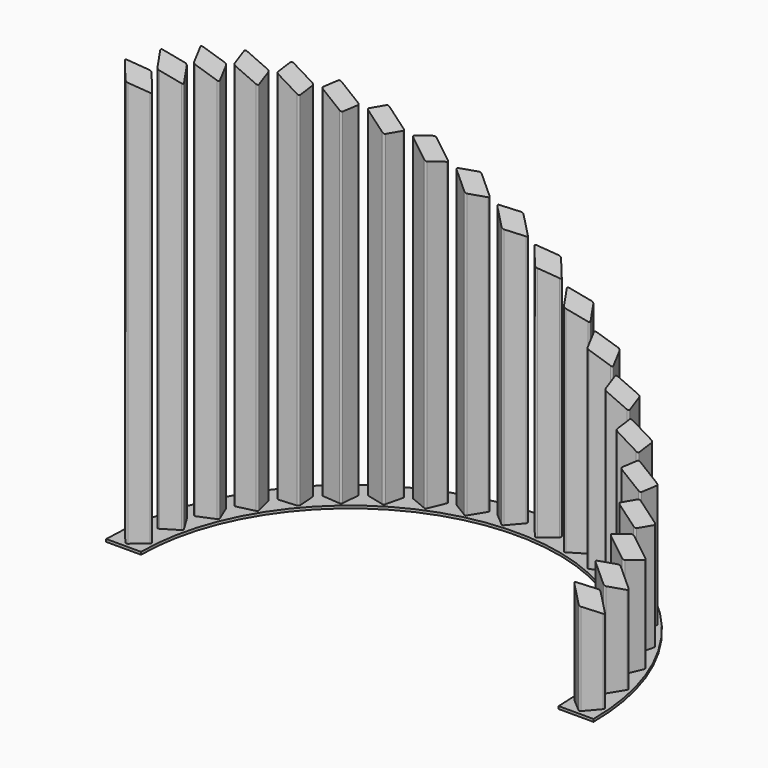
from build123d import *

# Parameters (mm, degrees)
F1_DEPTH = 9.525
F3_DEPTH = 1524
F5_DEPTH = 889.001


with BuildPart() as f1:
    # F0 (on Top) → F1 (new body)
    with BuildSketch(Plane.XY):
        with BuildLine():
            Line((762, 0), (889, 0))
            ThreePointArc((889, 0), (0, 889), (-889, 0))
            Line((-889, 0), (-762, 0))
            ThreePointArc((-762, 0), (0, 762), (762, 0))
        make_face()
    extrude(amount=F1_DEPTH)

    # F2 (on face) → F3 (join)
    with BuildSketch(Plane.XY.offset(9.525)):
        with BuildLine():
            Line((-823.5563402303, 114.3594263472), (-871.8421190459, 73.1194752782))
            ThreePointArc((-871.8421190459, 73.1194752782), (-874.0485490082, 68.7891126545), (-872.5467018205, 64.1669022898))
            Line((-872.5467018205, 64.1669022898), (-831.3067507516, 15.8811234742))
            ThreePointArc((-831.3067507516, 15.8811234742), (-826.9763881279, 13.6746935118), (-822.3541777631, 15.1765406995))
            Line((-822.3541777631, 15.1765406995), (-774.0683989475, 56.4164917685))
            ThreePointArc((-774.0683989475, 56.4164917685), (-771.8619689852, 60.7468543921), (-773.3638161729, 65.3690647569))
            Line((-773.3638161729, 65.3690647569), (-814.6037672418, 113.6548435725))
            ThreePointArc((-814.6037672418, 113.6548435725), (-818.9341298655, 115.8612735348), (-823.5563402303, 114.3594263472))
        make_face()
        with BuildLine():
            Line((831.3067507516, 15.8811234742), (872.5467018205, 64.1669022898))
            ThreePointArc((872.5467018205, 64.1669022898), (874.0485490082, 68.7891126545), (871.8421190459, 73.1194752782))
            Line((871.8421190459, 73.1194752782), (823.5563402303, 114.3594263472))
            ThreePointArc((823.5563402303, 114.3594263472), (818.9341298655, 115.8612735348), (814.6037672418, 113.6548435725))
            Line((814.6037672418, 113.6548435725), (773.3638161729, 65.3690647569))
            ThreePointArc((773.3638161729, 65.3690647569), (771.8619689852, 60.7468543921), (774.0683989475, 56.4164917685))
            Line((774.0683989475, 56.4164917685), (822.3541777631, 15.1765406995))
            ThreePointArc((822.3541777631, 15.1765406995), (826.9763881279, 13.6746935118), (831.3067507516, 15.8811234742))
        make_face()
        with BuildLine():
            Line((818.5876301204, 145.7306273291), (851.7662889799, 199.8732777656))
            ThreePointArc((851.7662889799, 199.8732777656), (852.5265729308, 204.673521712), (849.6698898222, 208.6054086952))
            Line((849.6698898222, 208.6054086952), (795.5272393857, 241.7840675547))
            ThreePointArc((795.5272393857, 241.7840675547), (790.7269954393, 242.5443515055), (786.7951084561, 239.687668397))
            Line((786.7951084561, 239.687668397), (753.6164495967, 185.5450179605))
            ThreePointArc((753.6164495967, 185.5450179605), (752.8561656458, 180.7447740141), (755.7128487544, 176.8128870309))
            Line((755.7128487544, 176.8128870309), (809.8554991908, 143.6342281714))
            ThreePointArc((809.8554991908, 143.6342281714), (814.6557431373, 142.8739442206), (818.5876301204, 145.7306273291))
        make_face()
        with BuildLine():
            Line((785.7121652992, 271.991759487), (810.0125632543, 330.6581098015))
            ThreePointArc((810.0125632543, 330.6581098015), (810.0125632543, 335.5181893925), (806.5759680184, 338.9547846285))
            Line((806.5759680184, 338.9547846285), (747.9096177039, 363.2551825837))
            ThreePointArc((747.9096177039, 363.2551825837), (743.0495381129, 363.2551825837), (739.612942877, 359.8185873477))
            Line((739.612942877, 359.8185873477), (715.3125449218, 301.1522370333))
            ThreePointArc((715.3125449218, 301.1522370333), (715.3125449218, 296.2921574422), (718.7491401577, 292.8555622063))
            Line((718.7491401577, 292.8555622063), (777.4154904722, 268.5551642511))
            ThreePointArc((777.4154904722, 268.5551642511), (782.2755700632, 268.5551642511), (785.7121652992, 271.991759487))
        make_face()
        with BuildLine():
            Line((733.489859339, 391.5555518375), (748.3136399439, 453.3010417827))
            ThreePointArc((748.3136399439, 453.3010417827), (747.553355993, 458.1012857292), (743.6214690098, 460.9579688377))
            Line((743.6214690098, 460.9579688377), (681.8759790646, 475.7817494426))
            ThreePointArc((681.8759790646, 475.7817494426), (677.0757351182, 475.0214654917), (674.2190520096, 471.0895785086))
            Line((674.2190520096, 471.0895785086), (659.3952714047, 409.3440885633))
            ThreePointArc((659.3952714047, 409.3440885633), (660.1555553556, 404.5438446169), (664.0874423388, 401.6871615083))
            Line((664.0874423388, 401.6871615083), (725.832932284, 386.8633809034))
            ThreePointArc((725.832932284, 386.8633809034), (730.6331762305, 387.6236648543), (733.489859339, 391.5555518375))
        make_face()
        with BuildLine():
            Line((663.2065987287, 501.4779470033), (668.1887513074, 564.7821976954))
            ThreePointArc((668.1887513074, 564.7821976954), (666.6869041198, 569.4044080601), (662.3565414961, 571.6108380224))
            Line((662.3565414961, 571.6108380224), (599.052290804, 576.5929906012))
            ThreePointArc((599.052290804, 576.5929906012), (594.4300804393, 575.0911434135), (592.223650477, 570.7607807898))
            Line((592.223650477, 570.7607807898), (587.2414978982, 507.4565300978))
            ThreePointArc((587.2414978982, 507.4565300978), (588.7433450859, 502.834319733), (593.0737077096, 500.6278897707))
            Line((593.0737077096, 500.6278897707), (656.3779584016, 495.645737192))
            ThreePointArc((656.3779584016, 495.645737192), (661.0001687664, 497.1475843796), (663.2065987287, 501.4779470033))
        make_face()
        with BuildLine():
            Line((576.5929906012, 599.052290804), (571.6108380224, 662.3565414961))
            ThreePointArc((571.6108380224, 662.3565414961), (569.4044080601, 666.6869041198), (564.7821976954, 668.1887513074))
            Line((564.7821976954, 668.1887513074), (501.4779470033, 663.2065987287))
            ThreePointArc((501.4779470033, 663.2065987287), (497.1475843796, 661.0001687664), (495.645737192, 656.3779584016))
            Line((495.645737192, 656.3779584016), (500.6278897707, 593.0737077096))
            ThreePointArc((500.6278897707, 593.0737077096), (502.834319733, 588.7433450859), (507.4565300978, 587.2414978982))
            Line((507.4565300978, 587.2414978982), (570.7607807898, 592.223650477))
            ThreePointArc((570.7607807898, 592.223650477), (575.0911434135, 594.4300804393), (576.5929906012, 599.052290804))
        make_face()
        with BuildLine():
            Line((475.7817494426, 681.8759790646), (460.9579688377, 743.6214690098))
            ThreePointArc((460.9579688377, 743.6214690098), (458.1012857292, 747.553355993), (453.3010417827, 748.3136399439))
            Line((453.3010417827, 748.3136399439), (391.5555518375, 733.489859339))
            ThreePointArc((391.5555518375, 733.489859339), (387.6236648543, 730.6331762305), (386.8633809034, 725.832932284))
            Line((386.8633809034, 725.832932284), (401.6871615083, 664.0874423388))
            ThreePointArc((401.6871615083, 664.0874423388), (404.5438446169, 660.1555553556), (409.3440885633, 659.3952714047))
            Line((409.3440885633, 659.3952714047), (471.0895785086, 674.2190520096))
            ThreePointArc((471.0895785086, 674.2190520096), (475.0214654917, 677.0757351182), (475.7817494426, 681.8759790646))
        make_face()
        with BuildLine():
            Line((363.2551825837, 747.9096177039), (338.9547846285, 806.5759680184))
            ThreePointArc((338.9547846285, 806.5759680184), (335.5181893925, 810.0125632543), (330.6581098015, 810.0125632543))
            Line((330.6581098015, 810.0125632543), (271.991759487, 785.7121652992))
            ThreePointArc((271.991759487, 785.7121652992), (268.5551642511, 782.2755700632), (268.5551642511, 777.4154904722))
            Line((268.5551642511, 777.4154904722), (292.8555622063, 718.7491401577))
            ThreePointArc((292.8555622063, 718.7491401577), (296.2921574422, 715.3125449218), (301.1522370333, 715.3125449218))
            Line((301.1522370333, 715.3125449218), (359.8185873477, 739.612942877))
            ThreePointArc((359.8185873477, 739.612942877), (363.2551825837, 743.0495381129), (363.2551825837, 747.9096177039))
        make_face()
        with BuildLine():
            Line((241.7840675547, 795.5272393857), (208.6054086952, 849.6698898222))
            ThreePointArc((208.6054086952, 849.6698898222), (204.673521712, 852.5265729308), (199.8732777656, 851.7662889799))
            Line((199.8732777656, 851.7662889799), (145.7306273291, 818.5876301204))
            ThreePointArc((145.7306273291, 818.5876301204), (142.8739442206, 814.6557431373), (143.6342281714, 809.8554991908))
            Line((143.6342281714, 809.8554991908), (176.8128870309, 755.7128487544))
            ThreePointArc((176.8128870309, 755.7128487544), (180.7447740141, 752.8561656458), (185.5450179605, 753.6164495967))
            Line((185.5450179605, 753.6164495967), (239.687668397, 786.7951084561))
            ThreePointArc((239.687668397, 786.7951084561), (242.5443515055, 790.7269954393), (241.7840675547, 795.5272393857))
        make_face()
        with BuildLine():
            Line((114.3594263472, 823.5563402303), (73.1194752782, 871.8421190459))
            ThreePointArc((73.1194752782, 871.8421190459), (68.7891126545, 874.0485490082), (64.1669022898, 872.5467018205))
            Line((64.1669022898, 872.5467018205), (15.8811234742, 831.3067507516))
            ThreePointArc((15.8811234742, 831.3067507516), (13.6746935118, 826.9763881279), (15.1765406995, 822.3541777631))
            Line((15.1765406995, 822.3541777631), (56.4164917685, 774.0683989475))
            ThreePointArc((56.4164917685, 774.0683989475), (60.7468543921, 771.8619689852), (65.3690647569, 773.3638161729))
            Line((65.3690647569, 773.3638161729), (113.6548435725, 814.6037672418))
            ThreePointArc((113.6548435725, 814.6037672418), (115.8612735348, 818.9341298655), (114.3594263472, 823.5563402303))
        make_face()
        with BuildLine():
            Line((-15.8811234742, 831.3067507516), (-64.1669022898, 872.5467018205))
            ThreePointArc((-64.1669022898, 872.5467018205), (-68.7891126545, 874.0485490082), (-73.1194752782, 871.8421190459))
            Line((-73.1194752782, 871.8421190459), (-114.3594263472, 823.5563402303))
            ThreePointArc((-114.3594263472, 823.5563402303), (-115.8612735348, 818.9341298655), (-113.6548435725, 814.6037672418))
            Line((-113.6548435725, 814.6037672418), (-65.3690647569, 773.3638161729))
            ThreePointArc((-65.3690647569, 773.3638161729), (-60.7468543921, 771.8619689852), (-56.4164917685, 774.0683989475))
            Line((-56.4164917685, 774.0683989475), (-15.1765406995, 822.3541777631))
            ThreePointArc((-15.1765406995, 822.3541777631), (-13.6746935118, 826.9763881279), (-15.8811234742, 831.3067507516))
        make_face()
        with BuildLine():
            Line((-145.7306273291, 818.5876301204), (-199.8732777656, 851.7662889799))
            ThreePointArc((-199.8732777656, 851.7662889799), (-204.673521712, 852.5265729308), (-208.6054086952, 849.6698898222))
            Line((-208.6054086952, 849.6698898222), (-241.7840675547, 795.5272393857))
            ThreePointArc((-241.7840675547, 795.5272393857), (-242.5443515055, 790.7269954393), (-239.687668397, 786.7951084561))
            Line((-239.687668397, 786.7951084561), (-185.5450179605, 753.6164495967))
            ThreePointArc((-185.5450179605, 753.6164495967), (-180.7447740141, 752.8561656458), (-176.8128870309, 755.7128487544))
            Line((-176.8128870309, 755.7128487544), (-143.6342281714, 809.8554991908))
            ThreePointArc((-143.6342281714, 809.8554991908), (-142.8739442206, 814.6557431373), (-145.7306273291, 818.5876301204))
        make_face()
        with BuildLine():
            Line((-271.991759487, 785.7121652992), (-330.6581098015, 810.0125632543))
            ThreePointArc((-330.6581098015, 810.0125632543), (-335.5181893925, 810.0125632543), (-338.9547846285, 806.5759680184))
            Line((-338.9547846285, 806.5759680184), (-363.2551825837, 747.9096177039))
            ThreePointArc((-363.2551825837, 747.9096177039), (-363.2551825837, 743.0495381129), (-359.8185873477, 739.612942877))
            Line((-359.8185873477, 739.612942877), (-301.1522370333, 715.3125449218))
            ThreePointArc((-301.1522370333, 715.3125449218), (-296.2921574422, 715.3125449218), (-292.8555622063, 718.7491401577))
            Line((-292.8555622063, 718.7491401577), (-268.5551642511, 777.4154904722))
            ThreePointArc((-268.5551642511, 777.4154904722), (-268.5551642511, 782.2755700632), (-271.991759487, 785.7121652992))
        make_face()
        with BuildLine():
            Line((-391.5555518375, 733.489859339), (-453.3010417827, 748.3136399439))
            ThreePointArc((-453.3010417827, 748.3136399439), (-458.1012857292, 747.553355993), (-460.9579688377, 743.6214690098))
            Line((-460.9579688377, 743.6214690098), (-475.7817494426, 681.8759790646))
            ThreePointArc((-475.7817494426, 681.8759790646), (-475.0214654917, 677.0757351182), (-471.0895785086, 674.2190520096))
            Line((-471.0895785086, 674.2190520096), (-409.3440885633, 659.3952714047))
            ThreePointArc((-409.3440885633, 659.3952714047), (-404.5438446169, 660.1555553556), (-401.6871615083, 664.0874423388))
            Line((-401.6871615083, 664.0874423388), (-386.8633809034, 725.832932284))
            ThreePointArc((-386.8633809034, 725.832932284), (-387.6236648543, 730.6331762305), (-391.5555518375, 733.489859339))
        make_face()
        with BuildLine():
            Line((-501.4779470033, 663.2065987287), (-564.7821976954, 668.1887513074))
            ThreePointArc((-564.7821976954, 668.1887513074), (-569.4044080601, 666.6869041198), (-571.6108380224, 662.3565414961))
            Line((-571.6108380224, 662.3565414961), (-576.5929906012, 599.052290804))
            ThreePointArc((-576.5929906012, 599.052290804), (-575.0911434135, 594.4300804393), (-570.7607807898, 592.223650477))
            Line((-570.7607807898, 592.223650477), (-507.4565300978, 587.2414978982))
            ThreePointArc((-507.4565300978, 587.2414978982), (-502.834319733, 588.7433450859), (-500.6278897707, 593.0737077096))
            Line((-500.6278897707, 593.0737077096), (-495.645737192, 656.3779584016))
            ThreePointArc((-495.645737192, 656.3779584016), (-497.1475843796, 661.0001687664), (-501.4779470033, 663.2065987287))
        make_face()
        with BuildLine():
            Line((-599.052290804, 576.5929906012), (-662.3565414961, 571.6108380224))
            ThreePointArc((-662.3565414961, 571.6108380224), (-666.6869041198, 569.4044080601), (-668.1887513074, 564.7821976954))
            Line((-668.1887513074, 564.7821976954), (-663.2065987287, 501.4779470033))
            ThreePointArc((-663.2065987287, 501.4779470033), (-661.0001687664, 497.1475843796), (-656.3779584016, 495.645737192))
            Line((-656.3779584016, 495.645737192), (-593.0737077096, 500.6278897707))
            ThreePointArc((-593.0737077096, 500.6278897707), (-588.7433450859, 502.834319733), (-587.2414978982, 507.4565300978))
            Line((-587.2414978982, 507.4565300978), (-592.223650477, 570.7607807898))
            ThreePointArc((-592.223650477, 570.7607807898), (-594.4300804393, 575.0911434135), (-599.052290804, 576.5929906012))
        make_face()
        with BuildLine():
            Line((-681.8759790646, 475.7817494426), (-743.6214690098, 460.9579688377))
            ThreePointArc((-743.6214690098, 460.9579688377), (-747.553355993, 458.1012857292), (-748.3136399439, 453.3010417827))
            Line((-748.3136399439, 453.3010417827), (-733.489859339, 391.5555518375))
            ThreePointArc((-733.489859339, 391.5555518375), (-730.6331762305, 387.6236648543), (-725.832932284, 386.8633809034))
            Line((-725.832932284, 386.8633809034), (-664.0874423388, 401.6871615083))
            ThreePointArc((-664.0874423388, 401.6871615083), (-660.1555553556, 404.5438446169), (-659.3952714047, 409.3440885633))
            Line((-659.3952714047, 409.3440885633), (-674.2190520096, 471.0895785086))
            ThreePointArc((-674.2190520096, 471.0895785086), (-677.0757351182, 475.0214654917), (-681.8759790646, 475.7817494426))
        make_face()
        with BuildLine():
            Line((-747.9096177039, 363.2551825837), (-806.5759680184, 338.9547846285))
            ThreePointArc((-806.5759680184, 338.9547846285), (-810.0125632543, 335.5181893925), (-810.0125632543, 330.6581098015))
            Line((-810.0125632543, 330.6581098015), (-785.7121652992, 271.991759487))
            ThreePointArc((-785.7121652992, 271.991759487), (-782.2755700632, 268.5551642511), (-777.4154904722, 268.5551642511))
            Line((-777.4154904722, 268.5551642511), (-718.7491401577, 292.8555622063))
            ThreePointArc((-718.7491401577, 292.8555622063), (-715.3125449218, 296.2921574422), (-715.3125449218, 301.1522370333))
            Line((-715.3125449218, 301.1522370333), (-739.612942877, 359.8185873477))
            ThreePointArc((-739.612942877, 359.8185873477), (-743.0495381129, 363.2551825837), (-747.9096177039, 363.2551825837))
        make_face()
        with BuildLine():
            Line((-795.5272393857, 241.7840675547), (-849.6698898222, 208.6054086952))
            ThreePointArc((-849.6698898222, 208.6054086952), (-852.5265729308, 204.673521712), (-851.7662889799, 199.8732777656))
            Line((-851.7662889799, 199.8732777656), (-818.5876301204, 145.7306273291))
            ThreePointArc((-818.5876301204, 145.7306273291), (-814.6557431373, 142.8739442206), (-809.8554991908, 143.6342281714))
            Line((-809.8554991908, 143.6342281714), (-755.7128487544, 176.8128870309))
            ThreePointArc((-755.7128487544, 176.8128870309), (-752.8561656458, 180.7447740141), (-753.6164495967, 185.5450179605))
            Line((-753.6164495967, 185.5450179605), (-786.7951084561, 239.687668397))
            ThreePointArc((-786.7951084561, 239.687668397), (-790.7269954393, 242.5443515055), (-795.5272393857, 241.7840675547))
        make_face()
    extrude(amount=F3_DEPTH)

    # F4 (on Front) → F5 (cut, through all)
    with BuildSketch(Plane.XZ):
        Polygon((889, 1536.7), (-889, 1536.7), (889, 304.8), align=None)
    extrude(amount=-F5_DEPTH, mode=Mode.SUBTRACT)


solid = f1.part
